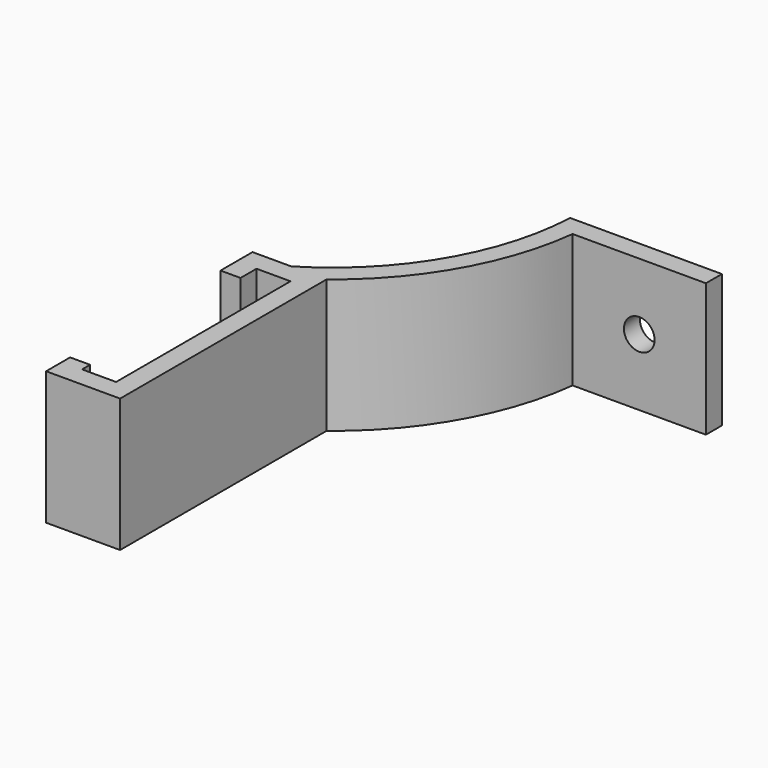
from build123d import *

# Parameters (mm, degrees)
F1_DEPTH = 25.4
F2_R     = 2.921
F3_DEPTH = 87.25


with BuildPart() as f1:
    # F0 (on Top) → F1 (new body)
    with BuildSketch(Plane.XY):
        with BuildLine():
            Line((-24.8285, 20.1295), (-18.3515, 20.1295))
            Line((-18.3515, 20.1295), (-18.3515, -21.3995))
            Line((-18.3515, -21.3995), (-24.8285, -21.3995))
            Line((-24.8285, -21.3995), (-24.8285, -19.4945))
            Line((-24.8285, -19.4945), (-28.6385, -19.4945))
            Line((-28.6385, -19.4945), (-28.6385, -25.2095))
            Line((-28.6385, -25.2095), (-14.5415, -25.2095))
            Line((-14.5415, -25.2095), (-14.5415, 20.1295))
            Line((-14.5415, 20.1295), (-14.5415, 23.9395))
            ThreePointArc((-14.5415, 23.9395), (-1.365036, 39.123287), (4.8895, 58.2295))
            Line((4.8895, 58.2295), (30.2895, 58.2295))
            Line((30.2895, 58.2295), (30.2895, 62.0395))
            Line((30.2895, 62.0395), (1.37959, 62.0395))
            ThreePointArc((1.37959, 62.0395), (-5.1744, 40.149819), (-21.27839, 23.9395))
            Line((-21.27839, 23.9395), (-28.6385, 23.9395))
            Line((-28.6385, 23.9395), (-28.6385, 16.3195))
            Line((-28.6385, 16.3195), (-24.8285, 16.3195))
            Line((-24.8285, 16.3195), (-24.8285, 20.1295))
        make_face()
    extrude(amount=F1_DEPTH)

    # F2 (on face) → F3 (cut, through all)
    with BuildSketch(Plane(origin=(0, 62.0395, 0), x_dir=(-1, 0, 0), z_dir=(0, 1, 0))):
        with Locations((-17.5895, 12.7)):
            Circle(F2_R)
    extrude(amount=-F3_DEPTH, mode=Mode.SUBTRACT)


solid = f1.part
